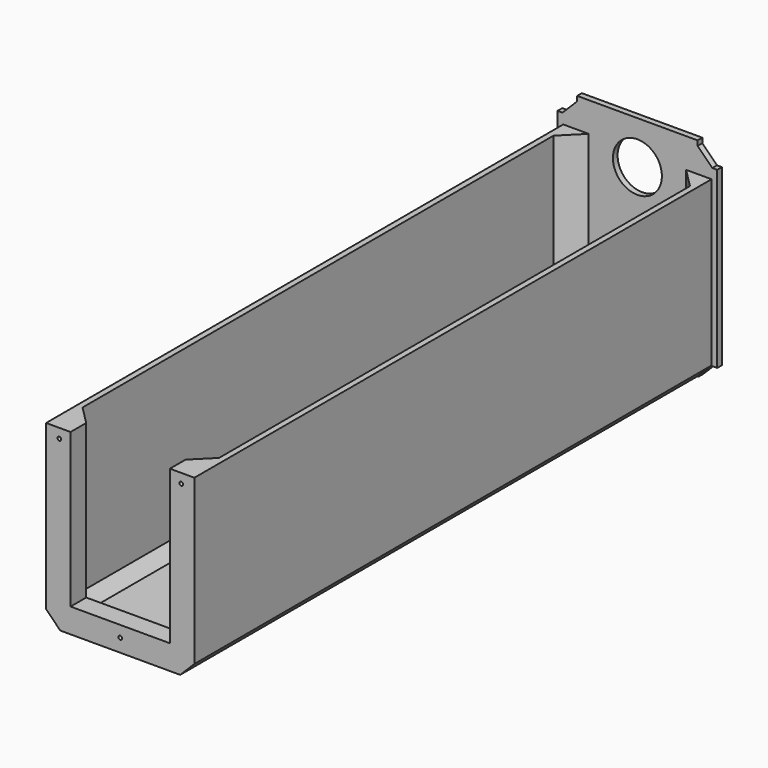
from build123d import *

# Parameters (mm, degrees)
SKETCH010_R      = 0.95
EXTRUDE011_DEPTH = 10
EXTRUDE012_DEPTH = 50
SKETCH002_R      = 12.5
EXTRUDE002_DEPTH = 3
EXTRUDE001_DEPTH = 330
EXTRUDE013_DEPTH = 50


with BuildPart() as back_holes_e:
    # Sketch010 → Extrude011 (new body)
    with BuildSketch(Plane.XZ.offset(330)):
        with Locations((10.15, 89.481014)):
            Circle(SKETCH010_R)
        with Locations((72.35, 89.481014)):
            Circle(SKETCH010_R)
        with Locations((41.25, 10.15)):
            Circle(SKETCH010_R)
    extrude(amount=-EXTRUDE011_DEPTH)


with BuildPart() as drawer_back_support_negative_e:
    # Sketch014 (on Face14 of Extrude001) → Extrude012 (new body)
    with BuildSketch(Plane.XZ.offset(330)):
        Polygon((71.848171, 3.4), (79.1, 10.651829), (82.5, 10.651829), (82.5, 0), (0, 0), (0, 10.651829), (3.4, 10.651829), (10.651829, 3.4), align=None)
    extrude(amount=-EXTRUDE012_DEPTH)


with BuildPart() as drawer_back_support001:
    # Sweep: sweep along a path in Sketch012
    with BuildLine(Plane.XZ.offset(330)) as sweep_path:
        Line((15.9, 94.348171), (15.9, 15.9))
        Line((15.9, 15.9), (66.6, 15.9))
        Line((66.6, 15.9), (66.6, 94.348171))
    # Sketch009 (on Edge32 of Extrude001) → Sweep (sweep)
    with BuildSketch(Plane(origin=(52.866667, -110, 94.348171), x_dir=(-1, 0, 0), z_dir=(0, 0, -1))):
        Polygon((46.466667, -220), (36.966667, -220), (36.966667, -210), (46.466667, -200.5), align=None)
    sweep(path=sweep_path.line, is_frenet=True, transition=Transition.RIGHT)

    # Cut: cut drawer_back_support_negative_e
    add(drawer_back_support_negative_e.part, mode=Mode.SUBTRACT)

    # Cut002: cut back_holes_e
    add(back_holes_e.part, mode=Mode.SUBTRACT)


with BuildPart() as drawer_front_e:
    # Sketch002 (on Face13 of Extrude001) → Extrude002 (new body)
    with BuildSketch(Plane(origin=(0, 0, 0), x_dir=(-1, 0, 0), z_dir=(0, 1, 0))):
        Polygon((-82, 99.513856), (-79.5, 99.513856), (-72.013856, 107), (-72.013856, 109.5), (-10.486144, 109.5), (-10.486144, 107), (-3, 99.513856), (-0.5, 99.513856), (-0.5, 10.486144), (-3, 10.486144), (-10.086144, 3.4), (-10.651829, 3.4), (-71.848171, 3.4), (-72.413856, 3.4), (-79.5, 10.486144), (-82, 10.486144), align=None)
        with Locations((-41.25, 87.5)):
            Circle(SKETCH002_R, mode=Mode.SUBTRACT)
    extrude(amount=EXTRUDE002_DEPTH)


with BuildPart() as drawer_tube_e:
    # Sketch (on Face17 of Extrude) → Extrude001 (new body)
    with BuildSketch(Plane(origin=(0, 0, 0), x_dir=(-1, 0, 0), z_dir=(0, 1, 0))):
        Polygon((-79.1, 10.651829), (-71.848171, 3.4), (-10.651829, 3.4), (-3.4, 10.651829), (-3.4, 94.348171), (-6.4, 94.348171), (-6.4, 11.89447), (-11.89447, 6.4), (-70.60553, 6.4), (-76.1, 11.89447), (-76.1, 94.348171), (-79.1, 94.348171), align=None)
    extrude(amount=-EXTRUDE001_DEPTH)


with BuildPart() as drawer_front_support_negative_e:
    # Sketch015 (on Face13 of Extrude001) → Extrude013 (new body)
    with BuildSketch(Plane(origin=(0, 0, 0), x_dir=(-1, 0, 0), z_dir=(0, 1, 0))):
        Polygon((-3.4, 10.651829), (0, 10.651829), (0, 0), (-82.5, 0), (-82.5, 10.651829), (-79.1, 10.651829), (-71.848171, 3.4), (-10.651829, 3.4), align=None)
    extrude(amount=-EXTRUDE013_DEPTH)


with BuildPart() as drawer_inside:
    # Sweep001: sweep along a path in Sketch013
    with BuildLine(Plane.XZ) as sweep001_path:
        Line((16.4, 94.348171), (16.4, 16.4))
        Line((16.4, 16.4), (66.1, 16.4))
        Line((66.1, 16.4), (66.1, 94.348171))
    # Sketch011 (on Face6 of Extrude001) → Sweep001 (sweep)
    with BuildSketch(Plane.XY.offset(94.348171)):
        Polygon((6.4, 0), (6.4, -10), (16.4, 0), align=None)
    sweep(path=sweep001_path.line, is_frenet=True, transition=Transition.RIGHT)

    # Cut001: cut drawer_front_support_negative_e
    add(drawer_front_support_negative_e.part, mode=Mode.SUBTRACT)

    # Fusion: union drawer_back_support001, drawer_front_e, drawer_tube_e
    add(drawer_back_support001.part)
    add(drawer_front_e.part)
    add(drawer_tube_e.part)


solid = drawer_inside.part
